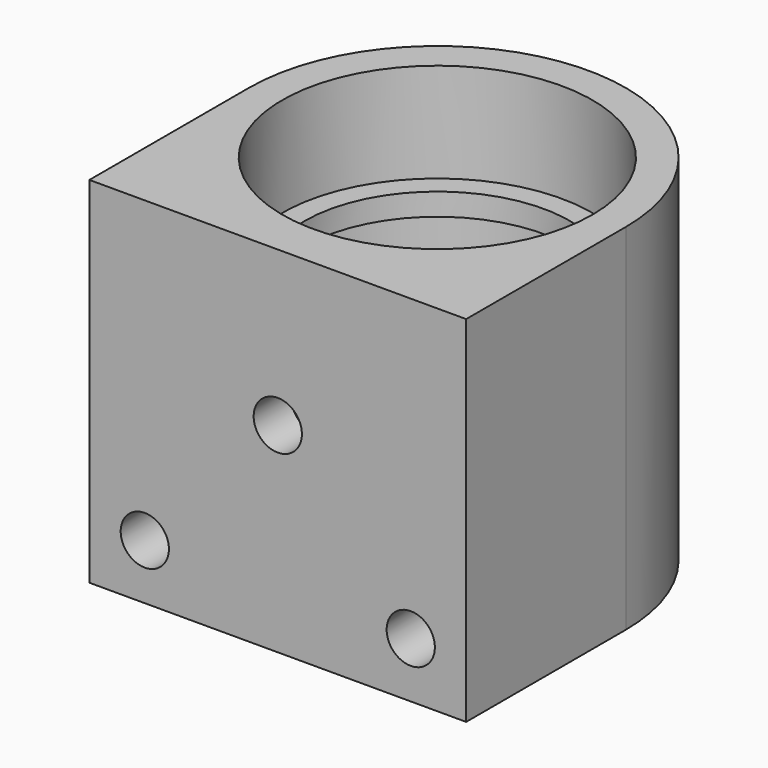
from build123d import *

# Parameters (mm, degrees)
F0_R     = 9.525
F1_DEPTH = 25.4
F2_R     = 11.1125
F3_DEPTH = 7.112
F5_R     = 11.1125
F6_DEPTH = 16.7005
F7_R     = 1.7272
F8_DEPTH = 6.35


with BuildPart() as f1:
    # F0 (on Top) → F1 (new body)
    with BuildSketch(Plane.XY):
        with BuildLine():
            Line((0, 0), (0, -14.2875))
            Line((0, -14.2875), (26.9875, -14.2875))
            Line((26.9875, -14.2875), (26.9875, 0))
            ThreePointArc((26.9875, 0), (13.49375, 13.49375), (0, 0))
        make_face()
        with Locations((13.49375, 0)):
            Circle(F0_R, mode=Mode.SUBTRACT)
    extrude(amount=F1_DEPTH)

    # F2 (on face) → F3 (cut)
    with BuildSketch(Plane.XY.offset(25.4)):
        with Locations((13.49375, 0)):
            Circle(F2_R)
    extrude(amount=-F3_DEPTH, mode=Mode.SUBTRACT)

    # F5 (on face) → F6 (cut, through all)
    with BuildSketch(Plane(origin=(0, 0, 0), x_dir=(1, 0, 0), z_dir=(0, 0, -1))):
        with Locations((13.49375, 0)):
            Circle(F5_R)
    extrude(amount=-F6_DEPTH, mode=Mode.SUBTRACT)

    # F7 (on face) → F8 (cut)
    with BuildSketch(Plane.XZ.offset(14.2875)):
        with Locations((23.01875, 3.96875)):
            Circle(F7_R)
        with Locations((3.96875, 3.96875)):
            Circle(F7_R)
        with Locations((13.49375, 14.31925)):
            Circle(F7_R)
    extrude(amount=-F8_DEPTH, mode=Mode.SUBTRACT)


solid = f1.part
